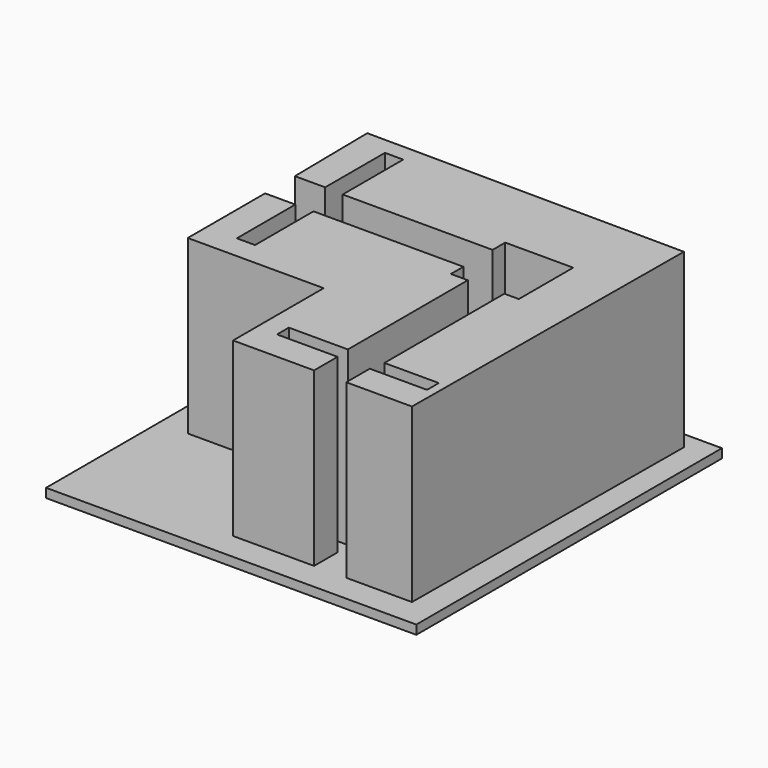
from build123d import *

# Parameters (mm, degrees)
F1_DEPTH = 40
F2_W     = 81.73683
F2_H     = 84.327088
F3_DEPTH = 2


with BuildPart() as f1:
    # F0 (on Top) → F1 (new body)
    with BuildSketch(Plane.XY):
        Polygon((-70, 0), (-40, 0), (-40, -25), (-22.115748, -25), (-22.115748, -18.514374), (-35.487905, -18.514374), (-35.487905, -15.247175), (-22.448849, -15.253707), (-22.448849, 17.843956), (-26.190324, 17.843956), (-26.190324, 21.297626), (-59.287984, 21.297626), (-59.287984, 5.180503), (-63.317269, 5.180503), (-63.317269, 21.33072), (-70, 21.33072), align=None)
        Polygon((-26.190324, 29.356187), (-26.190324, 32.843956), (-11.190324, 32.843956), (-11.190324, 17.843956), (-14.390289, 17.843956), (-14.390289, -15.253707), (-2.372137, -15.253707), (-2.372137, -18.509066), (-15.016577, -18.509066), (-15.016577, -24.994692), (-0.51242, -24.994692), (0, 49.404442), (-70.2767, 49.888469), (-70, 29.559225), (-63.317269, 29.559225), (-63.317269, 46.048924), (-59.287984, 46.048924), (-59.287984, 29.356187), align=None)
    extrude(amount=F1_DEPTH)


with BuildPart() as f3:
    # F2 (on Top) → F3 (new body)
    with BuildSketch(Plane.XY):
        with Locations((-35.544009, 11.080521)):
            Rectangle(F2_W, F2_H)
    extrude(amount=F3_DEPTH)


solid = Compound([f1.part, f3.part])
